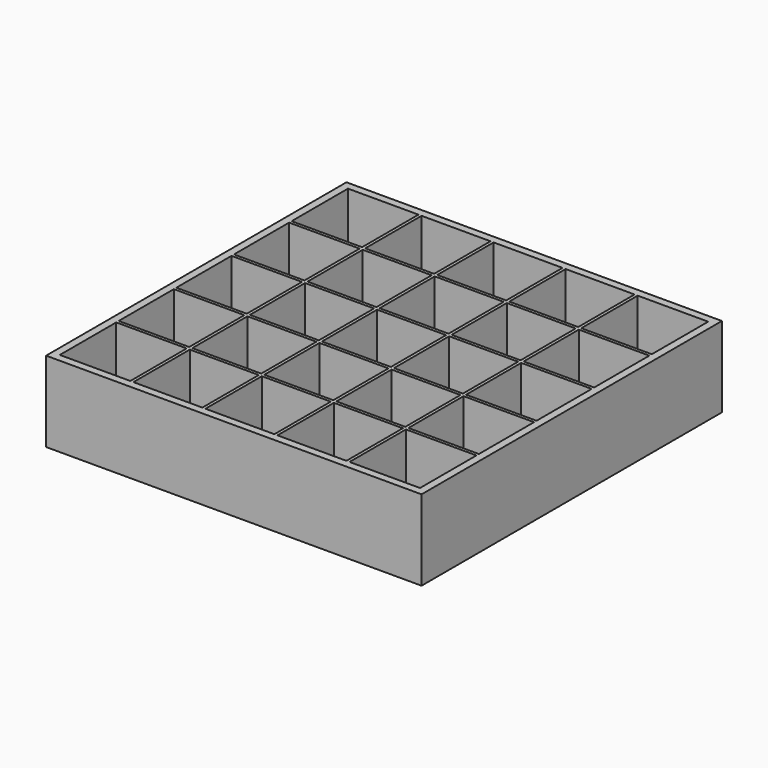
from build123d import *

# Parameters (mm, degrees)
F0_W     = 1820
F0_H     = 1820
F0_W_2   = 341.7
F0_H_2   = 341.7
F0_W_3   = 334.2
F0_H_3   = 15
F0_W_4   = 15
F0_H_4   = 334.2
F1_DEPTH = 390


with BuildPart() as f1:
    # F0 (on Top) → F1 (new body)
    with BuildSketch(Plane.XY):
        Rectangle(F0_W, F0_H)
        with Locations((-702.15, -702.15)):
            Rectangle(F0_W_2, F0_H_2, mode=Mode.SUBTRACT)
        with Locations((702.15, -702.15)):
            Rectangle(F0_W_2, F0_H_2, mode=Mode.SUBTRACT)
        with Locations((-702.15, 702.15)):
            Rectangle(F0_W_2, F0_H_2, mode=Mode.SUBTRACT)
        Polygon((-531.3, 516.3), (-531.3, 531.3), (-516.3, 531.3), (-516.3, 873), (-182.1, 873), (-182.1, 531.3), (-167.1, 531.3), (-167.1, 873), (167.1, 873), (167.1, 531.3), (182.1, 531.3), (182.1, 873), (516.3, 873), (516.3, 531.3), (531.3, 531.3), (531.3, 516.3), (873, 516.3), (873, 182.1), (531.3, 182.1), (531.3, 167.1), (873, 167.1), (873, -167.1), (531.3, -167.1), (531.3, -182.1), (873, -182.1), (873, -516.3), (531.3, -516.3), (531.3, -531.3), (516.3, -531.3), (516.3, -873), (182.1, -873), (182.1, -531.3), (167.1, -531.3), (167.1, -873), (-167.1, -873), (-167.1, -531.3), (-182.1, -531.3), (-182.1, -873), (-516.3, -873), (-516.3, -531.3), (-531.3, -531.3), (-531.3, -516.3), (-873, -516.3), (-873, -182.1), (-531.3, -182.1), (-531.3, -167.1), (-873, -167.1), (-873, 167.1), (-531.3, 167.1), (-531.3, 182.1), (-873, 182.1), (-873, 516.3), align=None, mode=Mode.SUBTRACT)
        with Locations((702.15, 702.15)):
            Rectangle(F0_W_2, F0_H_2, mode=Mode.SUBTRACT)
        with Locations((-349.2, -523.8)):
            Rectangle(F0_W_3, F0_H_3)
        with Locations((-174.6, -523.8)):
            Rectangle(F0_W_4, F0_H_3)
        with Locations((0, -523.8)):
            Rectangle(F0_W_3, F0_H_3)
        with Locations((-174.6, -349.2)):
            Rectangle(F0_W_4, F0_H_4)
        with Locations((349.2, -523.8)):
            Rectangle(F0_W_3, F0_H_3)
        with Locations((174.6, -523.8)):
            Rectangle(F0_W_4, F0_H_3)
        with Locations((174.6, -349.2)):
            Rectangle(F0_W_4, F0_H_4)
        with Locations((523.8, -523.8)):
            Rectangle(F0_W_4, F0_H_3)
        with Locations((523.8, -349.2)):
            Rectangle(F0_W_4, F0_H_4)
        with Locations((523.8, 0)):
            Rectangle(F0_W_4, F0_H_4)
        with Locations((349.2, -174.6)):
            Rectangle(F0_W_3, F0_H_3)
        with Locations((523.8, -174.6)):
            Rectangle(F0_W_4, F0_H_3)
        with Locations((523.8, 349.2)):
            Rectangle(F0_W_4, F0_H_4)
        with Locations((523.8, 174.6)):
            Rectangle(F0_W_4, F0_H_3)
        with Locations((349.2, 174.6)):
            Rectangle(F0_W_3, F0_H_3)
        with Locations((349.2, 523.8)):
            Rectangle(F0_W_3, F0_H_3)
        with Locations((523.8, 523.8)):
            Rectangle(F0_W_4, F0_H_3)
        with Locations((-349.2, 523.8)):
            Rectangle(F0_W_3, F0_H_3)
        with Locations((-523.8, 523.8)):
            Rectangle(F0_W_4, F0_H_3)
        with Locations((-523.8, 349.2)):
            Rectangle(F0_W_4, F0_H_4)
        with Locations((-174.6, 349.2)):
            Rectangle(F0_W_4, F0_H_4)
        with Locations((-174.6, 523.8)):
            Rectangle(F0_W_4, F0_H_3)
        with Locations((0, 523.8)):
            Rectangle(F0_W_3, F0_H_3)
        with Locations((-523.8, 174.6)):
            Rectangle(F0_W_4, F0_H_3)
        with Locations((-349.2, 174.6)):
            Rectangle(F0_W_3, F0_H_3)
        with Locations((-523.8, 0)):
            Rectangle(F0_W_4, F0_H_4)
        with Locations((-174.6, 0)):
            Rectangle(F0_W_4, F0_H_4)
        with Locations((0, 174.6)):
            Rectangle(F0_W_3, F0_H_3)
        with Locations((-174.6, 174.6)):
            Rectangle(F0_W_4, F0_H_3)
        with Locations((-349.2, -174.6)):
            Rectangle(F0_W_3, F0_H_3)
        with Locations((-523.8, -349.2)):
            Rectangle(F0_W_4, F0_H_4)
        with Locations((-523.8, -174.6)):
            Rectangle(F0_W_4, F0_H_3)
        with Locations((0, -174.6)):
            Rectangle(F0_W_3, F0_H_3)
        with Locations((-174.6, -174.6)):
            Rectangle(F0_W_4, F0_H_3)
        with Locations((-523.8, -523.8)):
            Rectangle(F0_W_4, F0_H_3)
        with Locations((174.6, 0)):
            Rectangle(F0_W_4, F0_H_4)
        with Locations((174.6, -174.6)):
            Rectangle(F0_W_4, F0_H_3)
        with Locations((174.6, 349.2)):
            Rectangle(F0_W_4, F0_H_4)
        with Locations((174.6, 174.6)):
            Rectangle(F0_W_4, F0_H_3)
        with Locations((174.6, 523.8)):
            Rectangle(F0_W_4, F0_H_3)
    extrude(amount=F1_DEPTH)


solid = f1.part
